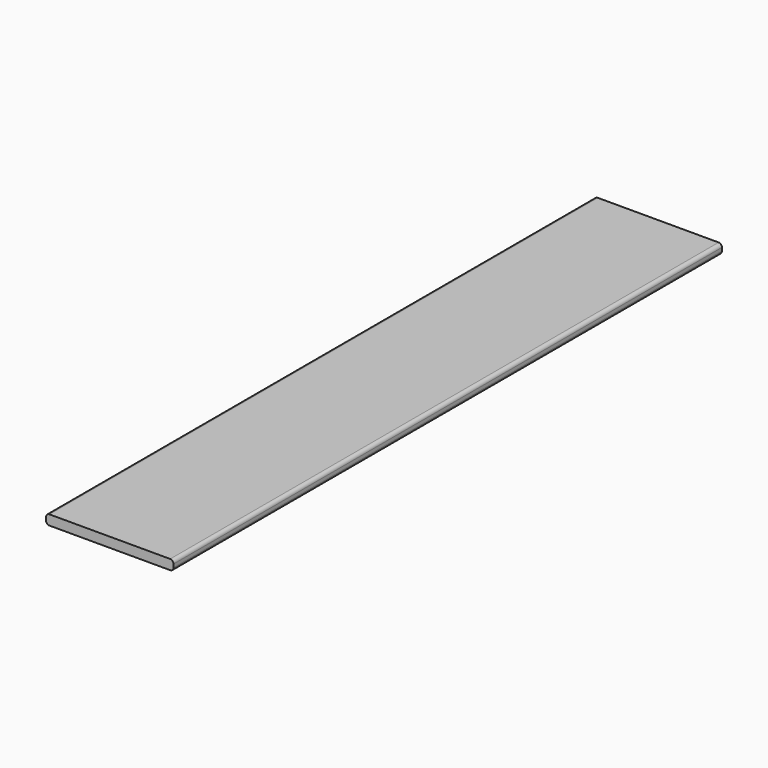
from build123d import *

# Parameters (mm, degrees)
F1_DEPTH = 495.3


with BuildPart() as f1:
    # F0 (on Front) → F1 (new body, symmetric)
    with BuildSketch(Plane.XZ):
        with BuildLine():
            Line((87.249, 7.1501), (-87.249, 7.1501))
            ThreePointArc((-87.249, 7.1501), (-90.661497, 5.736597), (-92.075, 2.3241))
            Line((-92.075, 2.3241), (-92.075, -2.3241))
            ThreePointArc((-92.075, -2.3241), (-90.661497, -5.736597), (-87.249, -7.1501))
            Line((-87.249, -7.1501), (87.249, -7.1501))
            ThreePointArc((87.249, -7.1501), (90.661497, -5.736597), (92.075, -2.3241))
            Line((92.075, -2.3241), (92.075, 2.3241))
            ThreePointArc((92.075, 2.3241), (90.661497, 5.736597), (87.249, 7.1501))
        make_face()
    extrude(amount=F1_DEPTH, both=True)


solid = f1.part
